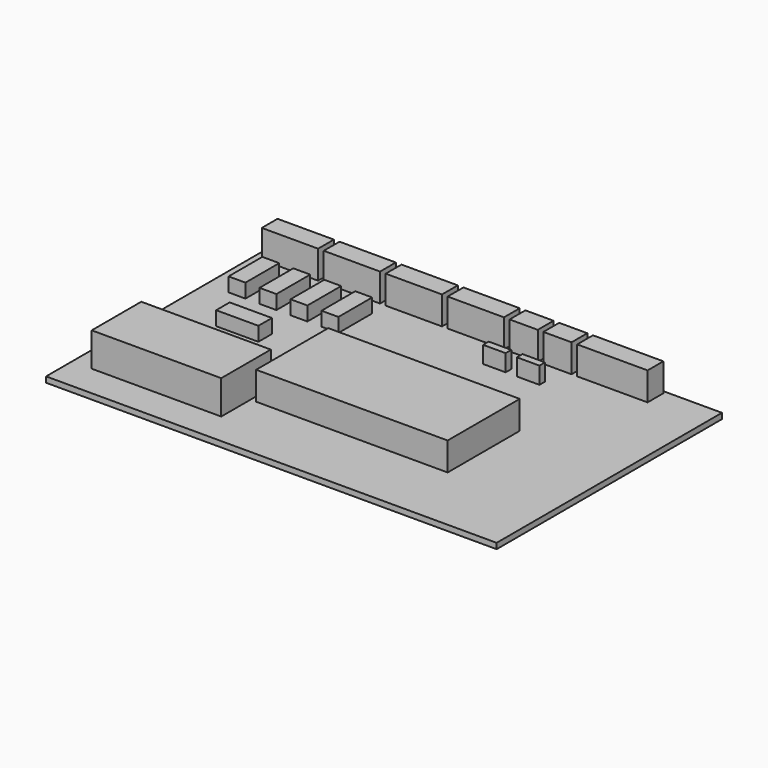
from build123d import *

# Parameters (mm, degrees)
F0_W      = 160
F0_H      = 100
F1_DEPTH  = 2
F2_W      = 20
F2_H      = 7
F2_W_2    = 10
F2_W_3    = 25
F3_DEPTH  = 10
F4_W      = 6
F4_H      = 15
F4_W_2    = 15
F4_H_2    = 6
F5_DEPTH  = 5
F6_W      = 8
F6_H      = 2.5
F7_DEPTH  = 6
F8_W      = 68
F8_H      = 32
F9_DEPTH  = 10
F10_W     = 46
F10_H     = 22
F11_DEPTH = 12


with BuildPart() as f1:
    # F0 (on Top) → F1 (new body)
    with BuildSketch(Plane.XY):
        Rectangle(F0_W, F0_H)
    extrude(amount=F1_DEPTH)


with BuildPart() as f3:
    # F2 (on face) → F3 (new body)
    with BuildSketch(Plane.XY.offset(2)):
        with Locations((-67, 45.5)):
            Rectangle(F2_W, F2_H)
        with Locations((-45, 45.5)):
            Rectangle(F2_W, F2_H)
        with Locations((-23, 45.5)):
            Rectangle(F2_W, F2_H)
        with Locations((16, 45.5)):
            Rectangle(F2_W_2, F2_H)
        with Locations((-1, 45.5)):
            Rectangle(F2_W, F2_H)
        with Locations((28, 45.5)):
            Rectangle(F2_W_2, F2_H)
        with Locations((47.5, 45.5)):
            Rectangle(F2_W_3, F2_H)
    extrude(amount=F3_DEPTH)


with BuildPart() as f5:
    # F4 (on face) → F5 (new body)
    with BuildSketch(Plane.XY.offset(2)):
        with Locations((-69, 28.5)):
            Rectangle(F4_W, F4_H)
        with Locations((-58, 28.5)):
            Rectangle(F4_W, F4_H)
        with Locations((-47, 28.5)):
            Rectangle(F4_W, F4_H)
        with Locations((-36, 28.5)):
            Rectangle(F4_W, F4_H)
        with Locations((-54.5, 6)):
            Rectangle(F4_W_2, F4_H_2)
    extrude(amount=F5_DEPTH)


with BuildPart() as f7:
    # F6 (on face) → F7 (new body)
    with BuildSketch(Plane.XY.offset(2)):
        with Locations((14, 32.75)):
            Rectangle(F6_W, F6_H)
        with Locations((26, 32.75)):
            Rectangle(F6_W, F6_H)
    extrude(amount=F7_DEPTH)


with BuildPart() as f9:
    # F8 (on face) → F9 (new body)
    with BuildSketch(Plane.XY.offset(2)):
        with Locations((9, -9.5)):
            Rectangle(F8_W, F8_H)
    extrude(amount=F9_DEPTH)


with BuildPart() as f11:
    # F10 (on face) → F11 (new body)
    with BuildSketch(Plane.XY.offset(2)):
        with Locations((-50, -27.5)):
            Rectangle(F10_W, F10_H)
    extrude(amount=F11_DEPTH)


solid = Compound([f1.part, f3.part, f5.part, f7.part, f9.part, f11.part])
